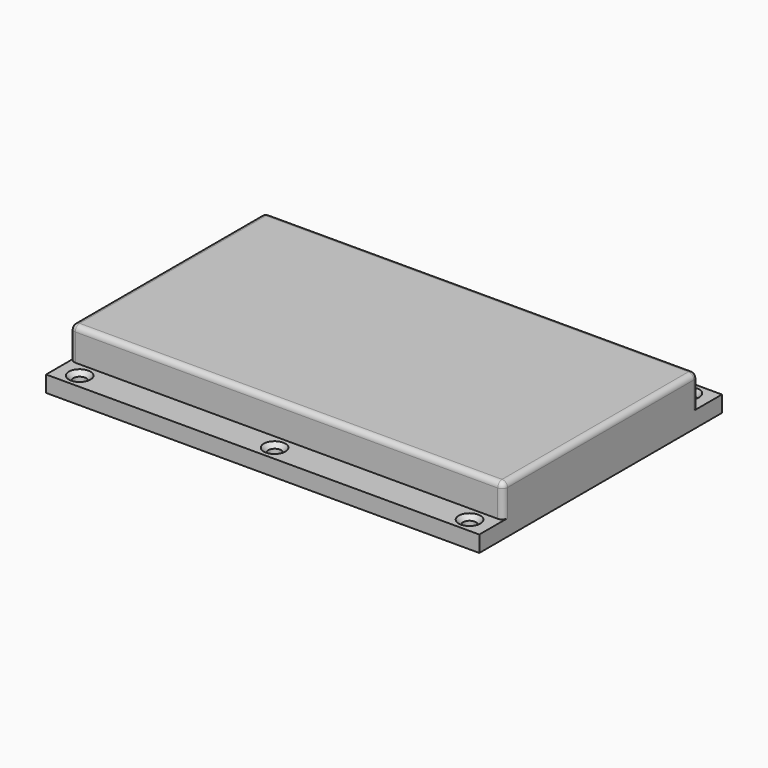
from build123d import *

# Parameters (mm, degrees)
PAD001_DEPTH     = 3
SKETCH002_W      = 80
SKETCH002_H      = 45
SKETCH002_W_2    = 35
SKETCH002_H_2    = 40
PAD002_DEPTH     = 3
SKETCH_W         = 80
SKETCH_H         = 45
PAD_DEPTH        = 3
SKETCH005_W      = 80
SKETCH005_H      = 56
PAD004_DEPTH     = 3
HOLE_D           = 2.4
HOLE_DEPTH       = 198.867435
HOLE_CSINK_D     = 4
HOLE_CSINK_ANGLE = 90
FILLET_R         = 1
PAD003_DEPTH     = 3


with BuildPart() as body001:
    # Sketch001 → Pad001 (new body)
    with BuildSketch(Plane.XY):
        with BuildLine():
            Line((37.5, -15), (37.5, 15))
            ThreePointArc((37.5, 15), (36.035534, 18.535534), (32.5, 20))
            Line((32.5, 20), (7.5, 20))
            ThreePointArc((7.5, 20), (3.964466, 18.535534), (2.5, 15))
            Line((2.5, 15), (2.5, -15))
            ThreePointArc((2.5, -15), (3.964466, -18.535534), (7.5, -20))
            Line((7.5, -20), (32.5, -20))
            ThreePointArc((32.5, -20), (36.035534, -18.535534), (37.5, -15))
        make_face()
    extrude(amount=PAD001_DEPTH)


with BuildPart() as cuerpo:
    # Sketch002 (on Sketch) → Pad002 (new body)
    with BuildSketch(Plane.XY):
        Rectangle(SKETCH002_W, SKETCH002_H)
        with Locations((-20, 0)):
            Rectangle(SKETCH002_W_2, SKETCH002_H_2, mode=Mode.SUBTRACT)
        with Locations((20, 0)):
            Rectangle(SKETCH002_W_2, SKETCH002_H_2, mode=Mode.SUBTRACT)
    extrude(amount=PAD002_DEPTH)

    # Sketch (on Face14 of Pad002) → Pad (join)
    with BuildSketch(Plane.XY.offset(3)):
        Rectangle(SKETCH_W, SKETCH_H)
    extrude(amount=PAD_DEPTH)

    # Sketch005 (on Face4 of Pad) → Pad004 (join)
    with BuildSketch(Plane(origin=(0, 0, 0), x_dir=(1, 0, 0), z_dir=(0, 0, -1))):
        Rectangle(SKETCH005_W, SKETCH005_H)
        Polygon((-37.5, 20), (-2.5, 20), (-2.5, 6), (2.5, 6), (2.5, 20), (37.5, 20), (37.5, -20), (2.5, -20), (2.5, -6), (-2.5, -6), (-2.5, -20), (-37.5, -20), align=None, mode=Mode.SUBTRACT)
    extrude(amount=PAD004_DEPTH)

    # Hole
    with Locations(Plane.XY):
        with Locations((-36, -25.25), (0, -25.25), (36, -25.25), (-36, 25.25), (0, 25.25), (36, 25.25)):
            CounterSinkHole(HOLE_D / 2, HOLE_CSINK_D / 2, depth=HOLE_DEPTH, counter_sink_angle=HOLE_CSINK_ANGLE)

    # Fillet
    fillet_edges = [cuerpo.edges().sort_by_distance(p)[0] for p in [
        (40, -22.5, 4.5),
        (40, -22.5, 1.5),
        (40, 22.5, 4.5),
        (40, 22.5, 1.5),
        (-40, -22.5, 4.5),
        (-40, -22.5, 1.5),
        (-40, 22.5, 4.5),
        (-40, 22.5, 1.5),
        (-40, 0, 6),
        (0, -22.5, 6),
        (0, 22.5, 6),
        (40, 0, 6),
    ]]
    fillet(fillet_edges, radius=FILLET_R)


with BuildPart() as body003:
    # Sketch003 → Pad003 (new body)
    with BuildSketch(Plane.XY):
        with BuildLine():
            Line((-2.5, -15), (-2.5, 15))
            ThreePointArc((-2.5, 15), (-3.964466, 18.535534), (-7.5, 20))
            Line((-7.5, 20), (-32.5, 20))
            ThreePointArc((-32.5, 20), (-36.035534, 18.535534), (-37.5, 15))
            Line((-37.5, 15), (-37.5, -15))
            ThreePointArc((-37.5, -15), (-36.035534, -18.535534), (-32.5, -20))
            Line((-32.5, -20), (-7.5, -20))
            ThreePointArc((-7.5, -20), (-3.964466, -18.535534), (-2.5, -15))
        make_face()
    extrude(amount=PAD003_DEPTH)


solid = Compound([body001.part, cuerpo.part, body003.part])
